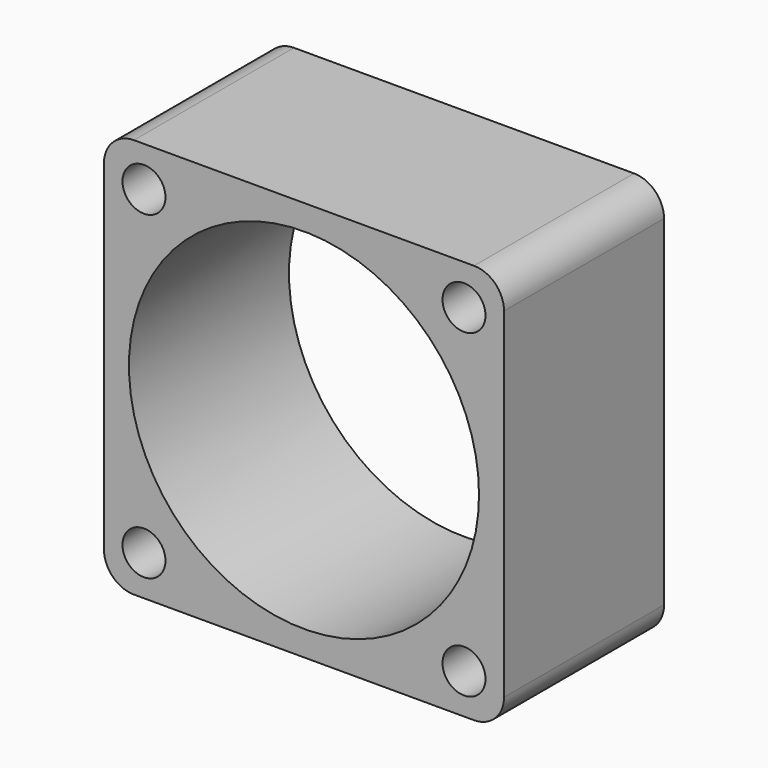
from build123d import *

# Parameters (mm, degrees)
F0_W     = 40
F0_H     = 40
F0_R     = 2.15
F0_R_2   = 17.5
F1_DEPTH = 20
F2_R     = 3


with BuildPart() as f1:
    # F0 (on Front) → F1 (new body)
    with BuildSketch(Plane.XZ):
        Rectangle(F0_W, F0_H)
        with Locations((-16, -16)):
            Circle(F0_R, mode=Mode.SUBTRACT)
        with Locations((16, -16)):
            Circle(F0_R, mode=Mode.SUBTRACT)
        with Locations((-16, 16)):
            Circle(F0_R, mode=Mode.SUBTRACT)
        Circle(F0_R_2, mode=Mode.SUBTRACT)
        with Locations((16, 16)):
            Circle(F0_R, mode=Mode.SUBTRACT)
    extrude(amount=F1_DEPTH)

    # F2
    f2_edges = [f1.edges().sort_by_distance(p)[0] for p in [
        (-20, -10, 20),
        (20, -10, 20),
        (20, -10, -20),
        (-20, -10, -20),
    ]]
    fillet(f2_edges, radius=F2_R)


solid = f1.part
